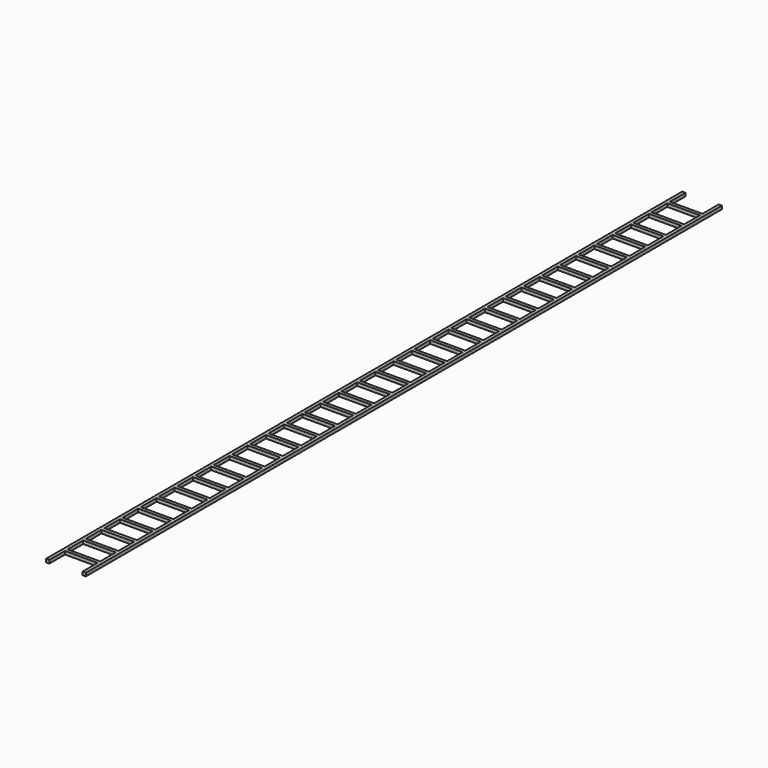
from build123d import *

# Parameters (mm, degrees)
SKETCH_W  = 10
SKETCH_H  = 6
PAD_DEPTH = 1


with BuildPart() as part:
    # Sketch → Pad (new body)
    with BuildSketch(Plane.XY):
        Polygon((-5, 5.886205), (5, 5.886205), (5, 0.113795), (6, 0.113795), (6, 244.227589), (5, 244.227589), (5, 238), (-5, 238), (-5, 244), (-6, 244), (-6, -0.113795), (-5, -0.113795), align=None)
        with Locations((0, 16.886205)):
            Rectangle(SKETCH_W, SKETCH_H, mode=Mode.SUBTRACT)
        with Locations((0, 24)):
            Rectangle(SKETCH_W, SKETCH_H, mode=Mode.SUBTRACT)
        with Locations((0, 31)):
            Rectangle(SKETCH_W, SKETCH_H, mode=Mode.SUBTRACT)
        with Locations((0, 38)):
            Rectangle(SKETCH_W, SKETCH_H, mode=Mode.SUBTRACT)
        with Locations((0, 45)):
            Rectangle(SKETCH_W, SKETCH_H, mode=Mode.SUBTRACT)
        with Locations((0, 52)):
            Rectangle(SKETCH_W, SKETCH_H, mode=Mode.SUBTRACT)
        with Locations((0, 59)):
            Rectangle(SKETCH_W, SKETCH_H, mode=Mode.SUBTRACT)
        with Locations((0, 66)):
            Rectangle(SKETCH_W, SKETCH_H, mode=Mode.SUBTRACT)
        with Locations((0, 73)):
            Rectangle(SKETCH_W, SKETCH_H, mode=Mode.SUBTRACT)
        with Locations((0, 80)):
            Rectangle(SKETCH_W, SKETCH_H, mode=Mode.SUBTRACT)
        with Locations((0, 87)):
            Rectangle(SKETCH_W, SKETCH_H, mode=Mode.SUBTRACT)
        with Locations((0, 94)):
            Rectangle(SKETCH_W, SKETCH_H, mode=Mode.SUBTRACT)
        with Locations((0, 101)):
            Rectangle(SKETCH_W, SKETCH_H, mode=Mode.SUBTRACT)
        with Locations((0, 108)):
            Rectangle(SKETCH_W, SKETCH_H, mode=Mode.SUBTRACT)
        with Locations((0, 115)):
            Rectangle(SKETCH_W, SKETCH_H, mode=Mode.SUBTRACT)
        with Locations((0, 122)):
            Rectangle(SKETCH_W, SKETCH_H, mode=Mode.SUBTRACT)
        with Locations((0, 129)):
            Rectangle(SKETCH_W, SKETCH_H, mode=Mode.SUBTRACT)
        with Locations((0, 136)):
            Rectangle(SKETCH_W, SKETCH_H, mode=Mode.SUBTRACT)
        with Locations((0, 143)):
            Rectangle(SKETCH_W, SKETCH_H, mode=Mode.SUBTRACT)
        with Locations((0, 150)):
            Rectangle(SKETCH_W, SKETCH_H, mode=Mode.SUBTRACT)
        with Locations((0, 157)):
            Rectangle(SKETCH_W, SKETCH_H, mode=Mode.SUBTRACT)
        with Locations((0, 164)):
            Rectangle(SKETCH_W, SKETCH_H, mode=Mode.SUBTRACT)
        with Locations((0, 171)):
            Rectangle(SKETCH_W, SKETCH_H, mode=Mode.SUBTRACT)
        with Locations((0, 178)):
            Rectangle(SKETCH_W, SKETCH_H, mode=Mode.SUBTRACT)
        with Locations((0, 185)):
            Rectangle(SKETCH_W, SKETCH_H, mode=Mode.SUBTRACT)
        with Locations((0, 192)):
            Rectangle(SKETCH_W, SKETCH_H, mode=Mode.SUBTRACT)
        with Locations((0, 199)):
            Rectangle(SKETCH_W, SKETCH_H, mode=Mode.SUBTRACT)
        with Locations((0, 206)):
            Rectangle(SKETCH_W, SKETCH_H, mode=Mode.SUBTRACT)
        with Locations((0, 213)):
            Rectangle(SKETCH_W, SKETCH_H, mode=Mode.SUBTRACT)
        with Locations((0, 220)):
            Rectangle(SKETCH_W, SKETCH_H, mode=Mode.SUBTRACT)
        with Locations((0, 227)):
            Rectangle(SKETCH_W, SKETCH_H, mode=Mode.SUBTRACT)
        with Locations((0, 234)):
            Rectangle(SKETCH_W, SKETCH_H, mode=Mode.SUBTRACT)
        with Locations((0, 9.886205)):
            Rectangle(SKETCH_W, SKETCH_H, mode=Mode.SUBTRACT)
    extrude(amount=PAD_DEPTH)


solid = part.part
